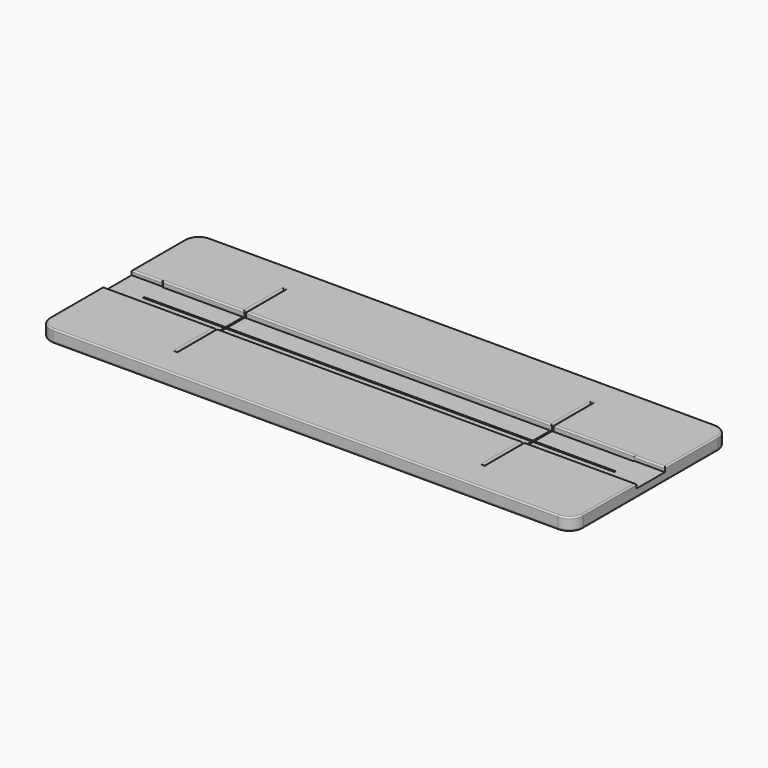
from build123d import *

# Parameters (mm, degrees)
F0_W     = 190
F0_H     = 70
F1_DEPTH = 3
F2_W     = 190
F2_H     = 28.65
F3_DEPTH = 1.6
F4_W     = 108.9
F4_H     = 7.8
F5_DEPTH = 25
F6_R     = 5
F7_R     = 0.75
F8_R     = 0.5


with BuildPart() as f1:
    # F0 (on Top) → F1 (new body)
    with BuildSketch(Plane.XY):
        Rectangle(F0_W, F0_H)
    extrude(amount=F1_DEPTH)

    # F2 (on face) → F3 (join)
    with BuildSketch(Plane.XY.offset(3)):
        with Locations((0, 20.675)):
            Rectangle(F2_W, F2_H)
        with Locations((0, -20.675)):
            Rectangle(F2_W, F2_H)
    extrude(amount=F3_DEPTH)

    # F4 (on face) → F5 (cut)
    with BuildSketch(Plane(origin=(0, 0, 0), x_dir=(1, 0, 0), z_dir=(0, 0, -1))):
        Polygon((-55.05, 2.35), (-84, 2.35), (-84, 1.75), (-55.05, 1.75), (-55.05, -6.05), (-84, -6.05), (-84, -6.65), (-55.05, -6.65), (-55.05, -24), (-54.45, -24), (-54.45, -6.65), (54.45, -6.65), (54.45, -24), (55.05, -24), (55.05, -6.65), (84, -6.65), (84, -6.05), (55.05, -6.05), (55.05, 1.75), (84, 1.75), (84, 2.35), (55.05, 2.35), (55.05, 24), (54.45, 24), (54.45, 2.35), (-54.45, 2.35), (-54.45, 24), (-55.05, 24), align=None)
        with Locations((0, -2.15)):
            Rectangle(F4_W, F4_H, mode=Mode.SUBTRACT)
    extrude(amount=-F5_DEPTH, mode=Mode.SUBTRACT)

    # F6
    f6_edges = [f1.edges().sort_by_distance(p)[0] for p in [
        (95, 35, 2.3),
        (95, -35, 2.3),
        (-95, -35, 2.3),
        (-95, 35, 2.3),
    ]]
    fillet(f6_edges, radius=F6_R)

    # F7
    f7_edges = [f1.edges().sort_by_distance(p)[0] for p in [
        (0, 35, 0),
        (93.535534, 33.535534, 0),
        (-93.535534, 33.535534, 0),
        (95, 0, 0),
        (-95, 0, 0),
        (93.535534, -33.535534, 0),
        (-93.535534, -33.535534, 0),
        (0, -35, 0),
        (-55.05, -13.175, 0),
        (-54.75, -24, 0),
        (-54.45, -13.175, 0),
        (0, -2.35, 0),
        (54.45, -13.175, 0),
        (54.75, -24, 0),
        (55.05, -13.175, 0),
        (69.525, -2.35, 0),
        (84, -2.05, 0),
        (69.525, -1.75, 0),
        (55.05, 2.15, 0),
        (69.525, 6.05, 0),
        (84, 6.35, 0),
        (69.525, 6.65, 0),
        (55.05, 15.325, 0),
        (54.75, 24, 0),
        (54.45, 15.325, 0),
        (0, 6.65, 0),
        (-54.45, 15.325, 0),
        (-54.75, 24, 0),
        (-55.05, 15.325, 0),
        (-69.525, 6.65, 0),
        (-84, 6.35, 0),
        (-69.525, 6.05, 0),
        (-55.05, 2.15, 0),
        (-69.525, -1.75, 0),
        (-84, -2.05, 0),
        (-69.525, -2.35, 0),
    ]]
    fillet(f7_edges, radius=F7_R)

    # F8
    f8_edges = [f1.edges().sort_by_distance(p)[0] for p in [
        (95, -18.175, 4.6),
        (93.535534, -33.535534, 4.6),
        (75.025, -6.35, 4.6),
        (0, -35, 4.6),
        (55.05, -15.175, 4.6),
        (-93.535534, -33.535534, 4.6),
        (54.75, -24, 4.6),
        (-95, -18.175, 4.6),
        (54.45, -15.175, 4.6),
        (-75.025, -6.35, 4.6),
        (0, -6.35, 4.6),
        (-55.05, -15.175, 4.6),
        (-54.45, -15.175, 4.6),
        (-54.75, -24, 4.6),
        (-95, 18.175, 4.6),
        (-93.535534, 33.535534, 4.6),
        (-89.5, 6.35, 4.6),
        (0, 35, 4.6),
        (-84, 6.5, 4.6),
        (93.535534, 33.535534, 4.6),
        (-69.525, 6.65, 4.6),
        (95, 18.175, 4.6),
        (-55.05, 15.325, 4.6),
        (89.5, 6.35, 4.6),
        (-54.75, 24, 4.6),
        (84, 6.5, 4.6),
        (-54.45, 15.325, 4.6),
        (69.525, 6.65, 4.6),
        (0, 6.65, 4.6),
        (55.05, 15.325, 4.6),
        (54.45, 15.325, 4.6),
        (54.75, 24, 4.6),
    ]]
    fillet(f8_edges, radius=F8_R)


solid = f1.part
